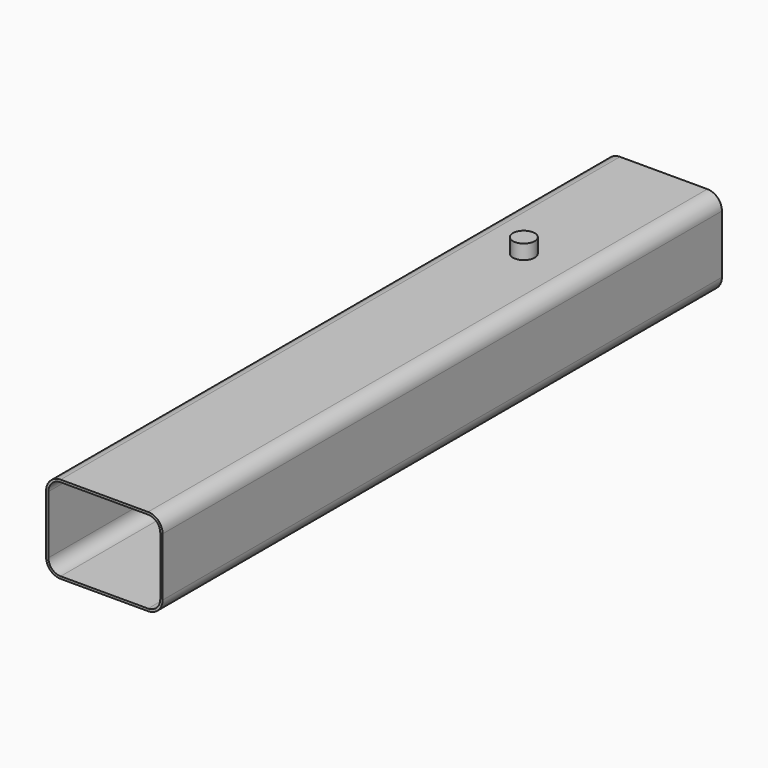
from build123d import *

# Parameters (mm, degrees)
F1_DEPTH = 152.4
F3_R     = 2.38125
F4_DEPTH = 3.175


with BuildPart() as f1:
    # F0 (on Front) → F1 (new body)
    with BuildSketch(Plane.XZ):
        with BuildLine():
            Line((-57.8891985873, -3.443037042), (-38.8391985873, -3.443037042))
            ThreePointArc((-38.8391985873, -3.443037042), (-36.594134557, -2.5131010723), (-35.6641985873, -0.268037042))
            Line((-35.6641985873, -0.268037042), (-35.6641985873, 12.431962958))
            ThreePointArc((-35.6641985873, 12.431962958), (-36.594134557, 14.6770269882), (-38.8391985873, 15.606962958))
            Line((-38.8391985873, 15.606962958), (-57.8891985873, 15.606962958))
            ThreePointArc((-57.8891985873, 15.606962958), (-60.1342626175, 14.6770269882), (-61.0641985873, 12.431962958))
            Line((-61.0641985873, 12.431962958), (-61.0641985873, -0.268037042))
            ThreePointArc((-61.0641985873, -0.268037042), (-60.1342626175, -2.5131010723), (-57.8891985873, -3.443037042))
        make_face()
        with BuildLine():
            ThreePointArc((-57.8891985873, -2.935037042), (-59.7750523727, -2.1538908274), (-60.5561985873, -0.268037042))
            Line((-60.5561985873, -0.268037042), (-60.5561985873, 12.431962958))
            ThreePointArc((-60.5561985873, 12.431962958), (-59.7750523727, 14.3178167434), (-57.8891985873, 15.098962958))
            Line((-57.8891985873, 15.098962958), (-38.8391985873, 15.098962958))
            ThreePointArc((-38.8391985873, 15.098962958), (-36.9533448018, 14.3178167434), (-36.1721985873, 12.431962958))
            Line((-36.1721985873, 12.431962958), (-36.1721985873, -0.268037042))
            ThreePointArc((-36.1721985873, -0.268037042), (-36.9533448018, -2.1538908274), (-38.8391985873, -2.935037042))
            Line((-38.8391985873, -2.935037042), (-57.8891985873, -2.935037042))
        make_face(mode=Mode.SUBTRACT)
    extrude(amount=F1_DEPTH)

    # F3 (on offset) → F4 (join, symmetric)
    with BuildSketch(Plane.XY.offset(15.606962958)):
        with Locations((-48.3641985873, -38.1)):
            Circle(F3_R)
    extrude(amount=F4_DEPTH, both=True)


solid = f1.part
